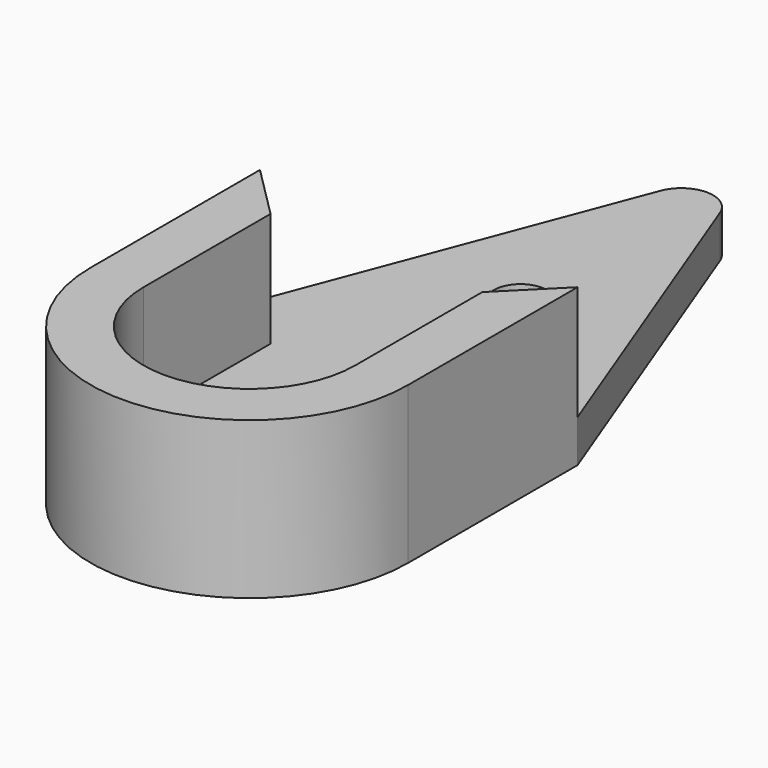
from build123d import *

# Parameters (mm, degrees)
F1_DEPTH = 2
F3_DEPTH = 5.4
F4_R     = 2.5
F5_DEPTH = 2
F6_R     = 1.25
F7_DEPTH = 25


with BuildPart() as f1:
    # F0 (on Top) → F1 (new body)
    with BuildSketch(Plane.XY):
        with BuildLine():
            Line((-7.5, 10), (-7.5, 0))
            ThreePointArc((-7.5, 0), (0, -7.5), (7.5, 0))
            Line((7.5, 0), (7.5, 10))
            Line((7.5, 10), (1.40202, 26.033235))
            ThreePointArc((1.40202, 26.033235), (0, 27), (-1.40202, 26.033235))
            Line((-1.40202, 26.033235), (-7.5, 10))
        make_face()
    extrude(amount=F1_DEPTH)

    # F2 (on face) → F3 (join)
    with BuildSketch(Plane.XY.offset(2)):
        with BuildLine():
            Line((-7.5, 10), (-7.5, 0))
            ThreePointArc((-7.5, 0), (0, -7.5), (7.5, 0))
            Line((7.5, 0), (7.5, 10))
            Line((7.5, 10), (5, 7.5))
            Line((5, 7.5), (5, 0))
            ThreePointArc((5, 0), (0, -5), (-5, 0))
            Line((-5, 0), (-5, 7.5))
            Line((-5, 7.5), (-7.5, 10))
        make_face()
    extrude(amount=F3_DEPTH)

    # F4 (on face) → F5 (join)
    with BuildSketch(Plane(origin=(0, 0, 0), x_dir=(1, 0, 0), z_dir=(0, 0, -1))):
        with Locations((0, -16)):
            Circle(F4_R)
    extrude(amount=F5_DEPTH)

    # F6 (on face) → F7 (cut)
    with BuildSketch(Plane(origin=(0, 0, -2), x_dir=(1, 0, 0), z_dir=(0, 0, -1))):
        with Locations((0, -16)):
            Circle(F6_R)
    extrude(amount=-F7_DEPTH, mode=Mode.SUBTRACT)


solid = f1.part
